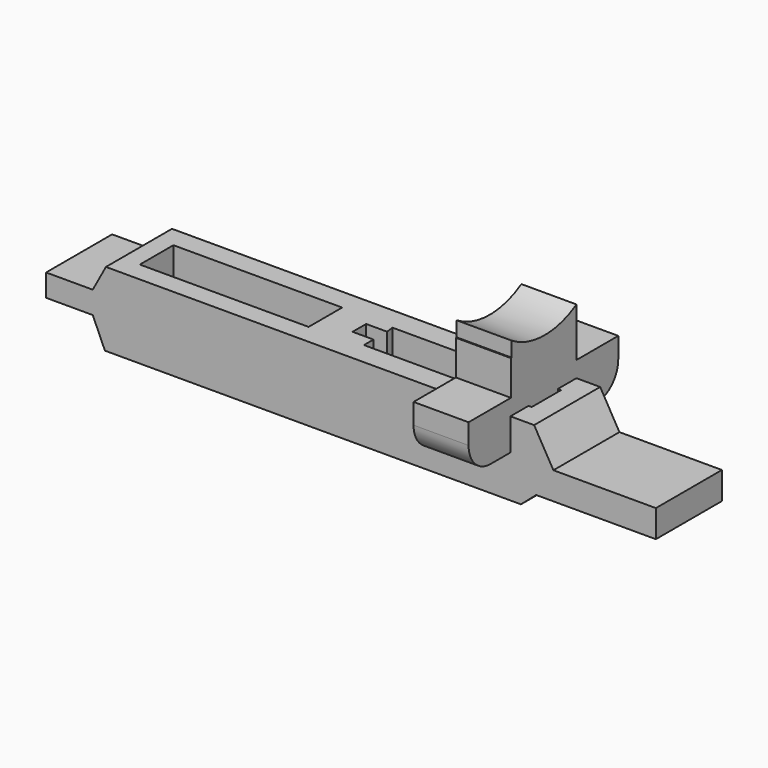
from build123d import *

# Parameters (mm, degrees)
F1_DEPTH  = 15
F2_W      = 30.665324
F2_H      = 7.620968
F3_DEPTH  = 11.06229
F3_FACE_W = 30.665324
F3_FACE_H = 7.620968
F4_DEPTH  = 2.397613
F6_DEPTH  = 11.06229
F7_DEPTH  = 2.397613
F9_W      = 0.181451
F9_H      = 6.350808
F9_W_2    = 14.697582
F10_DEPTH = 10


with BuildPart() as f1:
    # F0 (on Front) → F1 (new body)
    with BuildSketch(Plane.XZ):
        Polygon((-7.742904, 11.06129), (-48.485324, 11.06129), (-50.881937, 6.636775), (-59.362259, 6.636775), (-59.362259, 2.580968), (-50.881937, 2.580968), (-48.669677, -2.396613), (26.915805, -2.396613), (29.681128, 0), (51.435001, 0), (51.435001, 4.977581), (32.815162, 4.977581), (29.312419, 11.06129), align=None)
    extrude(amount=F1_DEPTH)

    # F2 (on Top) → F3 (cut, through all)
    with BuildSketch(Plane.XY):
        with Locations((-29.848791, -7.620968)):
            Rectangle(F2_W, F2_H)
    extrude(amount=F3_DEPTH, mode=Mode.SUBTRACT)

    # F3_face (on face) → F4 (cut, through all)
    with BuildSketch(Plane(origin=(-29.848791, -7.620968, 0), x_dir=(1, 0, 0), z_dir=(0, 0, 1))):
        Rectangle(F3_FACE_W, F3_FACE_H)
    extrude(amount=-F4_DEPTH, mode=Mode.SUBTRACT)

    # F5 (on Top) → F6 (cut, through all)
    with BuildSketch(Plane.XY):
        Polygon((25.584681, -4.173387), (-5.080645, -4.173387), (-4.899194, -5.625001), (-8.709677, -5.625001), (-8.709677, -8.709677), (-4.899194, -8.709677), (-4.899194, -10.887097), (25.584681, -10.887097), align=None)
    extrude(amount=F6_DEPTH, mode=Mode.SUBTRACT)

    # F6_face (on face) → F7 (cut, through all)
    with BuildSketch(Plane(origin=(9.402687, -7.508796, 0), x_dir=(1, 0, 0), z_dir=(0, 0, 1))):
        Polygon((16.181994, 3.335409), (-14.483332, 3.335409), (-14.301881, 1.883796), (-18.112365, 1.883796), (-18.112365, -1.200881), (-14.301881, -1.200881), (-14.301881, -3.3783), (16.181994, -3.3783), align=None)
    extrude(amount=-F7_DEPTH, mode=Mode.SUBTRACT)

    # F9 (on offset) → F10 (join)
    with BuildSketch(Plane.YZ.offset(25)):
        with BuildLine():
            Line((-14.879033, 13.971774), (-24.495969, 13.971774))
            Line((-24.495969, 13.971774), (-24.495969, 10.262097))
            ThreePointArc((-24.495969, 10.262097), (-23.031503, 6.726563), (-19.495969, 5.262097))
            Line((-19.495969, 5.262097), (4.504031, 5.262097))
            ThreePointArc((4.504031, 5.262097), (8.039565, 6.726563), (9.504031, 10.262097))
            Line((9.504031, 10.262097), (9.504031, 13.971774))
            Line((9.504031, 13.971774), (0, 13.971774))
            Line((0, 13.971774), (-14.697582, 13.971774))
            Line((-14.697582, 13.971774), (-14.879033, 13.971774))
        make_face()
        with Locations((-14.788307, 17.147178)):
            Rectangle(F9_W, F9_H)
        with Locations((-7.348791, 17.147178)):
            Rectangle(F9_W_2, F9_H)
        with BuildLine():
            Line((-14.697582, 23.044357), (-14.697582, 20.322582))
            Line((-14.697582, 20.322582), (0, 20.322582))
            Line((0, 20.322582), (0, 22.862904))
            ThreePointArc((0, 22.862904), (-7.374541, 20.867889), (-14.697582, 23.044357))
        make_face()
    extrude(amount=-F10_DEPTH)


solid = f1.part
